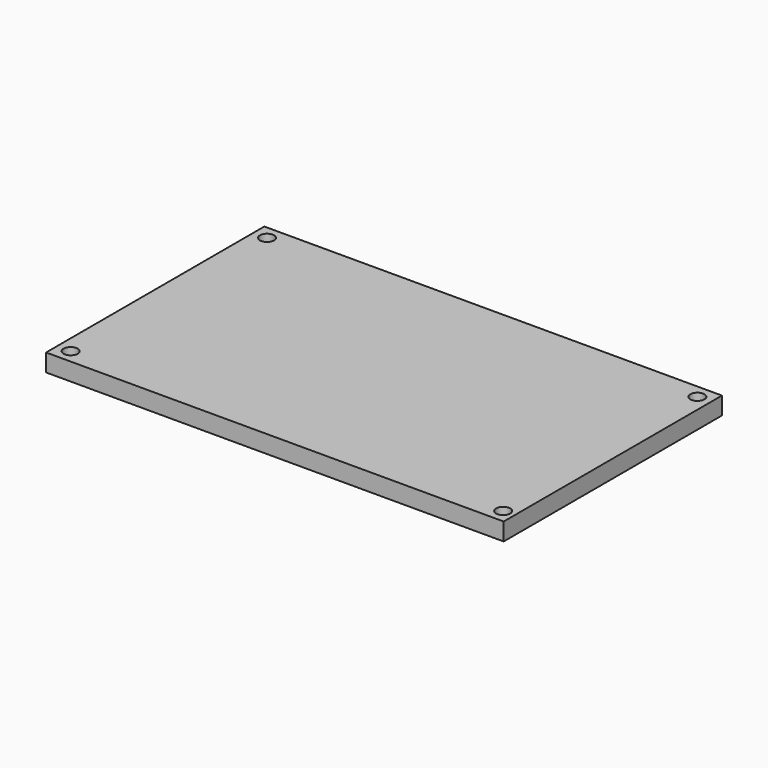
from build123d import *

# Parameters (mm, degrees)
CYLINDER007_R     = 1.6
CYLINDER007_DEPTH = 10
CYLINDER006_R     = 1.6
CYLINDER006_DEPTH = 10
CYLINDER005_R     = 1.6
CYLINDER005_DEPTH = 10
CYLINDER004_R     = 1.6
CYLINDER004_DEPTH = 10
BOX001_W          = 104
BOX001_H          = 62
BOX001_DEPTH      = 4


with BuildPart() as mount_point003:
    # Cylinder007 → Cylinder007 (new body)
    with BuildSketch(Plane(origin=(-3.1, 58.9, 0), x_dir=(1, 0, 0), z_dir=(0, 0, 1))):
        Circle(CYLINDER007_R)
    extrude(amount=CYLINDER007_DEPTH)


with BuildPart() as mount_point002:
    # Cylinder006 → Cylinder006 (new body)
    with BuildSketch(Plane(origin=(-100.9, 58.9, 0), x_dir=(1, 0, 0), z_dir=(0, 0, 1))):
        Circle(CYLINDER006_R)
    extrude(amount=CYLINDER006_DEPTH)


with BuildPart() as mount_point001:
    # Cylinder005 → Cylinder005 (new body)
    with BuildSketch(Plane(origin=(-100.9, 3.1, 0), x_dir=(1, 0, 0), z_dir=(0, 0, 1))):
        Circle(CYLINDER005_R)
    extrude(amount=CYLINDER005_DEPTH)


with BuildPart() as mount_point:
    # Cylinder004 → Cylinder004 (new body)
    with BuildSketch(Plane(origin=(-2.6, 3.1, 0), x_dir=(1, 0, 0), z_dir=(0, 0, 1))):
        Circle(CYLINDER004_R)
    extrude(amount=CYLINDER004_DEPTH)


with BuildPart() as standard_platform:
    # Box001 → Box001 (new body)
    with BuildSketch(Plane(origin=(-104, 0, 0), x_dir=(1, 0, 0), z_dir=(0, 0, 1))):
        with Locations((52, 31)):
            Rectangle(BOX001_W, BOX001_H)
    extrude(amount=BOX001_DEPTH)

    # Cut005: cut Mount Point
    add(mount_point.part, mode=Mode.SUBTRACT)

    # Cut006: cut Mount Point001
    add(mount_point001.part, mode=Mode.SUBTRACT)

    # Cut007: cut Mount Point002
    add(mount_point002.part, mode=Mode.SUBTRACT)

    # Cut008: cut Mount Point003
    add(mount_point003.part, mode=Mode.SUBTRACT)


solid = standard_platform.part
